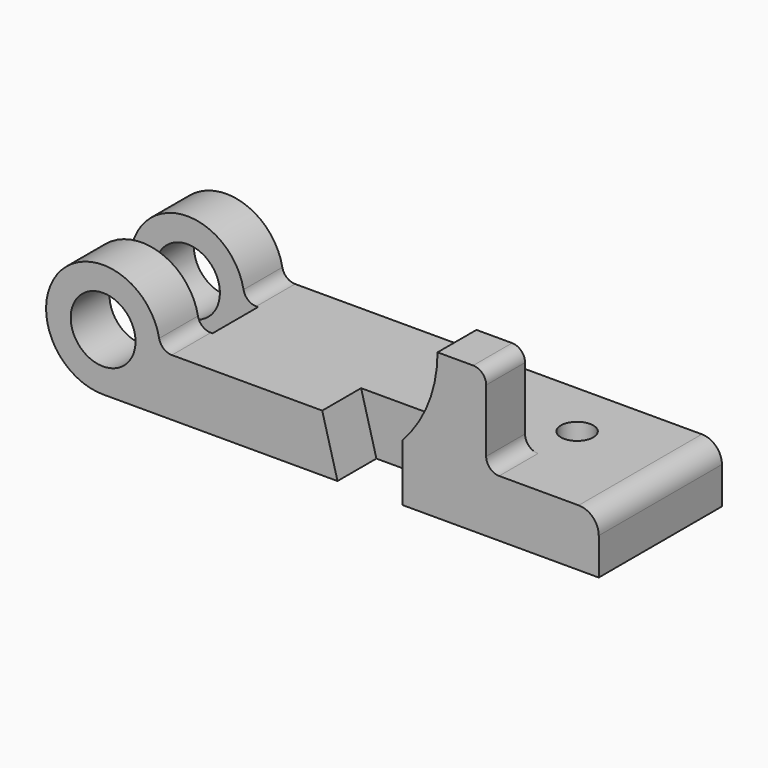
from build123d import *

# Parameters (mm, degrees)
F0_R     = 0.5
F1_DEPTH = 1.1875
F2_W     = 2.274463
F2_H     = 0.879
F2_R     = 0.25
F3_DEPTH = 2.251
F5_DEPTH = 1.625
F7_DEPTH = 0.75
F8_R     = 0.2


with BuildPart() as f1:
    # F0 (on Front) → F1 (new body, symmetric)
    with BuildSketch(Plane.XZ):
        Polygon((-4.03, 0), (-3.03, 0), (-3.03, 0.88), (-4.266, 0.88), align=None)
        with BuildLine():
            Line((-7.646, 0), (-4.03, 0))
            Line((-4.03, 0), (-4.266, 0.88))
            Line((-4.266, 0.88), (-6.58468, 0.88))
            ThreePointArc((-6.58468, 0.88), (-6.712337, 0.92604), (-6.781221, 1.042963))
            ThreePointArc((-6.781221, 1.042963), (-8.323424, 1.441691), (-7.646, 0))
        make_face()
        with Locations((-7.646, 0.88)):
            Circle(F0_R, mode=Mode.SUBTRACT)
        with BuildLine():
            Line((-3.03, 0), (0, 0))
            Line((0, 0), (0, 0.57))
            ThreePointArc((0, 0.57), (-0.090797, 0.789203), (-0.31, 0.88))
            Line((-0.31, 0.88), (-1.737, 0.88))
            Line((-1.737, 0.88), (-1.737, 2.05))
            ThreePointArc((-1.737, 2.05), (-1.795579, 2.191421), (-1.937, 2.25))
            Line((-1.937, 2.25), (-2.487, 2.25))
            ThreePointArc((-2.487, 2.25), (-2.627716, 1.513164), (-3.03, 0.88))
            Line((-3.03, 0.88), (-3.03, 0))
        make_face()
    extrude(amount=F1_DEPTH, both=True)

    # F2 (on Top) → F3 (cut, through all)
    with BuildSketch(Plane.XY):
        with Locations((-7.694299, 0)):
            Rectangle(F2_W, F2_H)
        with Locations((-1.53, 0.3075)):
            Circle(F2_R)
    extrude(amount=F3_DEPTH, mode=Mode.SUBTRACT)

    # F4 (on face) → F5 (cut)
    with BuildSketch(Plane(origin=(0, 1.1875, 0), x_dir=(-1, 0, 0), z_dir=(0, 1, 0))):
        with BuildLine():
            Line((1.737, 0.88), (3.03, 0.88))
            ThreePointArc((3.03, 0.88), (2.627716, 1.513164), (2.487, 2.25))
            Line((2.487, 2.25), (1.937, 2.25))
            ThreePointArc((1.937, 2.25), (1.795579, 2.191421), (1.737, 2.05))
            Line((1.737, 2.05), (1.737, 0.88))
        make_face()
    extrude(amount=-F5_DEPTH, mode=Mode.SUBTRACT)

    # F6 (on face) → F7 (cut)
    with BuildSketch(Plane.XZ.offset(1.1875)):
        Polygon((-3.03, 0), (-3.03, 0.88), (-4.266, 0.88), (-4.03, 0), align=None)
    extrude(amount=-F7_DEPTH, mode=Mode.SUBTRACT)

    # F8
    f8_edges = [f1.edges().sort_by_distance(p)[0] for p in [
        (-1.737, -0.8125, 0.88),
    ]]
    fillet(f8_edges, radius=F8_R)


solid = f1.part
